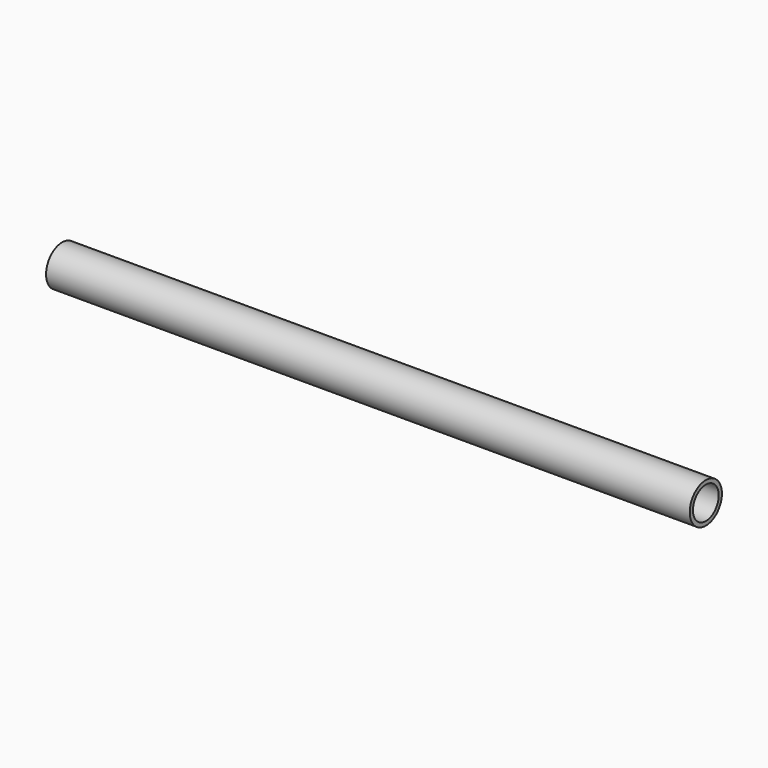
from build123d import *

# Parameters (mm, degrees)
F0_R   = 6.35
F0_R_2 = 5.08


with BuildPart() as f2:
    # F2: sweep along a path in F1
    with BuildLine(Plane.XZ) as f2_path:
        Line((0, 0), (-203.2, 0))
    # F0 (on Right) → F2 (sweep)
    with BuildSketch(Plane.YZ):
        Circle(F0_R)
        Circle(F0_R_2, mode=Mode.SUBTRACT)
    sweep(path=f2_path.line)


solid = f2.part
